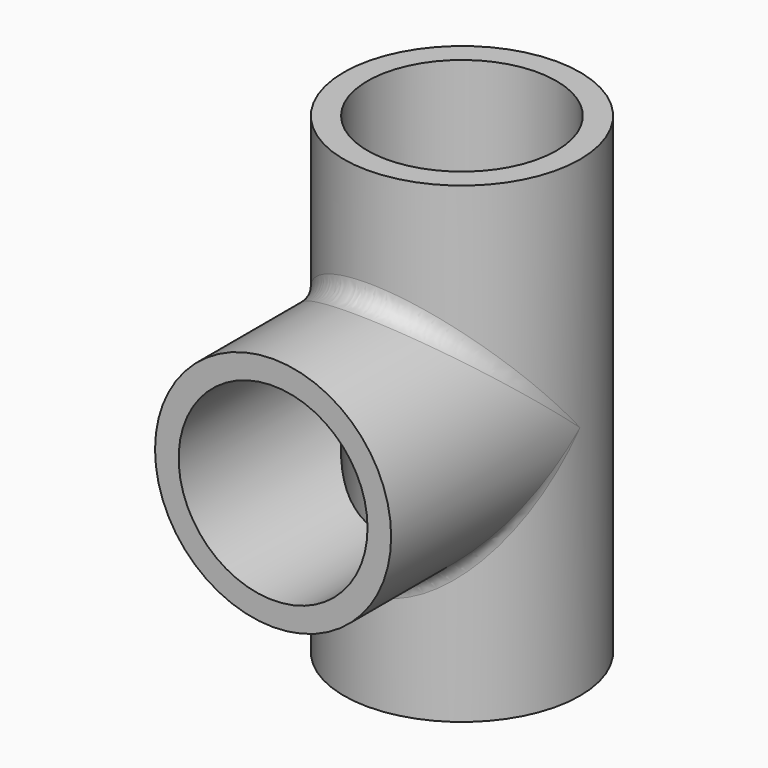
from build123d import *

# Parameters (mm, degrees)
F0_R     = 12.5
F1_DEPTH = 50
F2_R     = 12.5
F3_DEPTH = 25
F4_R     = 10
F5_DEPTH = 50.001
F6_R     = 10
F7_DEPTH = 25
F8_R     = 2


with BuildPart() as f1:
    # F0 (on Top) → F1 (new body)
    with BuildSketch(Plane.XY):
        Circle(F0_R)
    extrude(amount=F1_DEPTH)

    # F2 (on Front) → F3 (join)
    with BuildSketch(Plane.XZ):
        with Locations((0, 25)):
            Circle(F2_R)
    extrude(amount=F3_DEPTH)

    # F4 (on face) → F5 (cut, through all)
    with BuildSketch(Plane(origin=(0, 0, 0), x_dir=(1, 0, 0), z_dir=(0, 0, -1))):
        Circle(F4_R)
    extrude(amount=-F5_DEPTH, mode=Mode.SUBTRACT)

    # F6 (on face) → F7 (cut)
    with BuildSketch(Plane.XZ.offset(25)):
        with Locations((0, 25)):
            Circle(F6_R)
    extrude(amount=-F7_DEPTH, mode=Mode.SUBTRACT)

    # F8
    f8_edges = [f1.edges().sort_by_distance(p)[0] for p in [
        (9.5412, -8.075611, 16.924389),
        (-9.5412, -8.075611, 16.924389),
        (-1.4e-05, -12.5, 37.5),
    ]]
    fillet(f8_edges, radius=F8_R)


solid = f1.part
